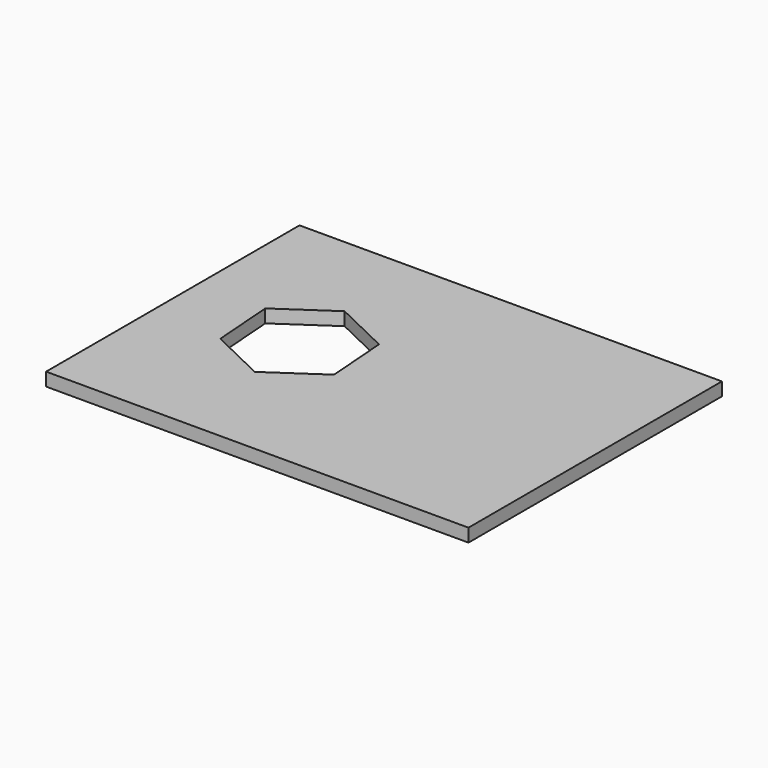
from build123d import *

# Parameters (mm, degrees)
F0_W     = 101.6
F0_H     = 76.2
F1_DEPTH = 1.5875
F3_DEPTH = 3.176


with BuildPart() as f1:
    # F0 (on Top) → F1 (new body, symmetric)
    with BuildSketch(Plane.XY):
        Rectangle(F0_W, F0_H)
    extrude(amount=F1_DEPTH, both=True)

    # F2 (on face) → F3 (cut, through all)
    with BuildSketch(Plane.XY.offset(1.5875)):
        Polygon((-22.371497, 16.116969), (-34.72076, 7.696586), (-33.603127, -7.208381), (-20.13623, -13.692966), (-7.786966, -5.272584), (-8.9046, 9.632384), align=None)
    extrude(amount=-F3_DEPTH, mode=Mode.SUBTRACT)


solid = f1.part
